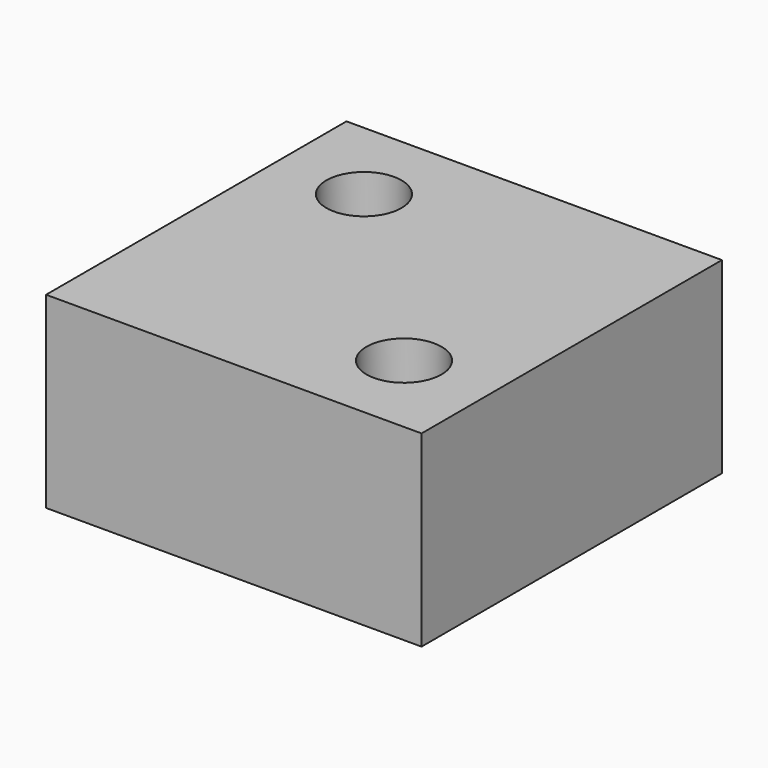
from build123d import *

# Parameters (mm, degrees)
F0_W           = 30
F0_H           = 30
F1_DEPTH       = 15
F3_D           = 3.3
F3_CBORE_D     = 6
F3_CBORE_DEPTH = 3.3
F5_DEPTH       = 4


with BuildPart() as f1:
    # F0 (on Top) → F1 (new body)
    with BuildSketch(Plane.XY):
        Rectangle(F0_W, F0_H)
    extrude(amount=F1_DEPTH)

    # F3 (through all)
    with Locations(Plane.XY.offset(15)):
        with Locations((-8, 8), (8, -8)):
            CounterBoreHole(F3_D / 2, F3_CBORE_D / 2, F3_CBORE_DEPTH)

    # F4 (on face) → F5 (cut)
    with BuildSketch(Plane(origin=(0, 0, 0), x_dir=(1, 0, 0), z_dir=(0, 0, -1))):
        Polygon((-5, -9.732051), (-5, -6.267949), (-8, -4.535898), (-11, -6.267949), (-11, -9.732051), (-8, -11.464102), align=None)
        Polygon((8.025555, 4.535993), (11.012696, 6.290127), (10.987141, 9.754135), (7.974445, 11.464007), (4.987304, 9.709873), (5.012859, 6.245865), align=None)
    extrude(amount=-F5_DEPTH, mode=Mode.SUBTRACT)


solid = f1.part
